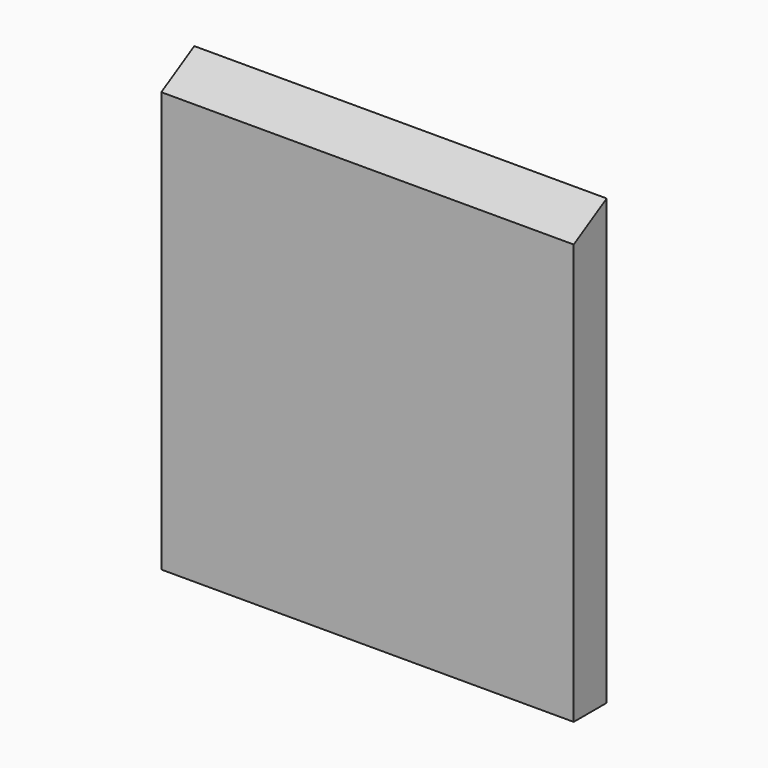
from build123d import *

# Parameters (mm, degrees)
F0_W     = 200
F0_H     = 215.359
F1_DEPTH = 20
F3_DEPTH = 200.001


with BuildPart() as f1:
    # F0 (on Front) → F1 (new body)
    with BuildSketch(Plane.XZ):
        Rectangle(F0_W, F0_H)
    extrude(amount=F1_DEPTH)

    # F2 (on face) → F3 (cut, through all)
    with BuildSketch(Plane(origin=(-100, 0, 0), x_dir=(0, -1, 0), z_dir=(-1, 0, 0))):
        Polygon((20, 107.6795), (0, 107.6795), (20, 96.132495), align=None)
    extrude(amount=-F3_DEPTH, mode=Mode.SUBTRACT)


solid = f1.part
